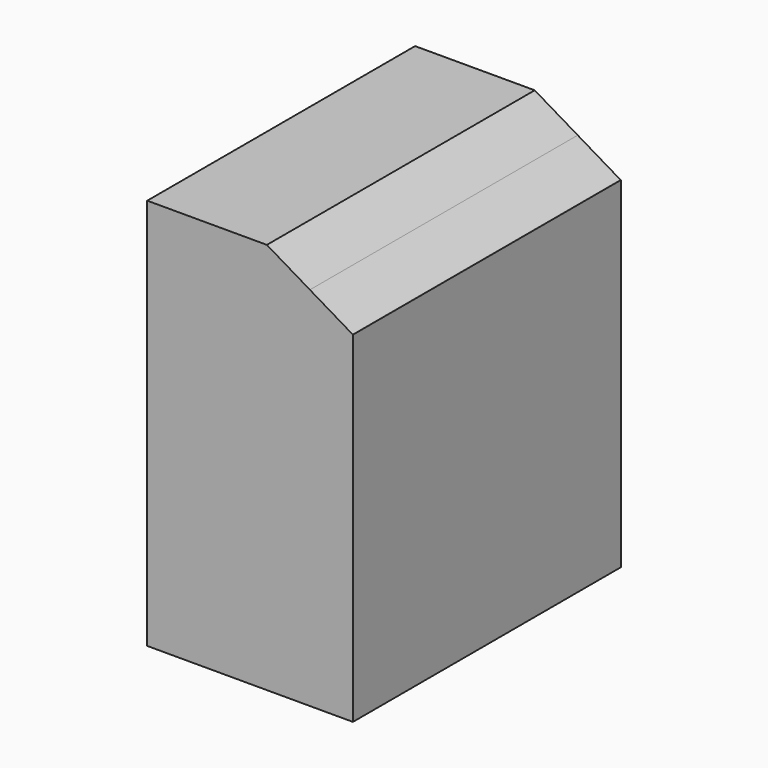
from build123d import *

# Parameters (mm, degrees)
F1_DEPTH = 22.86


with BuildPart() as f1:
    # F0 (on Front) → F1 (new body)
    with BuildSketch(Plane.XZ):
        Polygon((-24.150208, 26.765937), (-24.150208, 0), (-15.98116, 0), (-12.918395, 0), (-12.918395, 11.576809), (-12.918395, 20.449242), (-10.14033, 23.296849), (-13.043771, 25.021312), (-15.98116, 26.765937), align=None)
        Polygon((-12.918395, 11.576809), (-12.918395, 0), (-10.106383, 0), (-10.106383, 23.276687), (-10.14033, 23.296849), (-12.918395, 20.449242), align=None)
    extrude(amount=F1_DEPTH)


solid = f1.part
